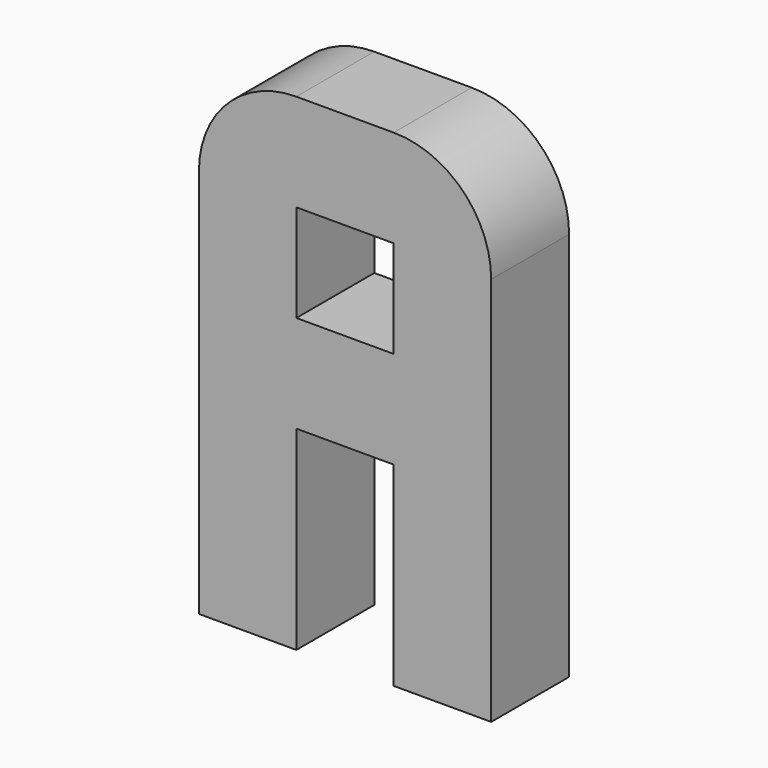
from build123d import *

# Parameters (mm, degrees)
F0_W     = 15.24
F0_H     = 25.4
F1_DEPTH = 5.08
F2_W     = 5.08
F2_H     = 5.08
F2_H_2   = 10.16
F3_DEPTH = 5.08
F4_R     = 5.08


with BuildPart() as f1:
    # F0 (on Front) → F1 (new body)
    with BuildSketch(Plane.XZ):
        Rectangle(F0_W, F0_H)
    extrude(amount=F1_DEPTH)

    # F2 (on face) → F3 (cut)
    with BuildSketch(Plane.XZ.offset(5.08)):
        with Locations((0, 5.08)):
            Rectangle(F2_W, F2_H)
        with Locations((0, -7.62)):
            Rectangle(F2_W, F2_H_2)
    extrude(amount=-F3_DEPTH, mode=Mode.SUBTRACT)

    # F4
    f4_edges = [f1.edges().sort_by_distance(p)[0] for p in [
        (-7.62, -2.54, 12.7),
        (7.62, -2.54, 12.7),
    ]]
    fillet(f4_edges, radius=F4_R)


solid = f1.part
